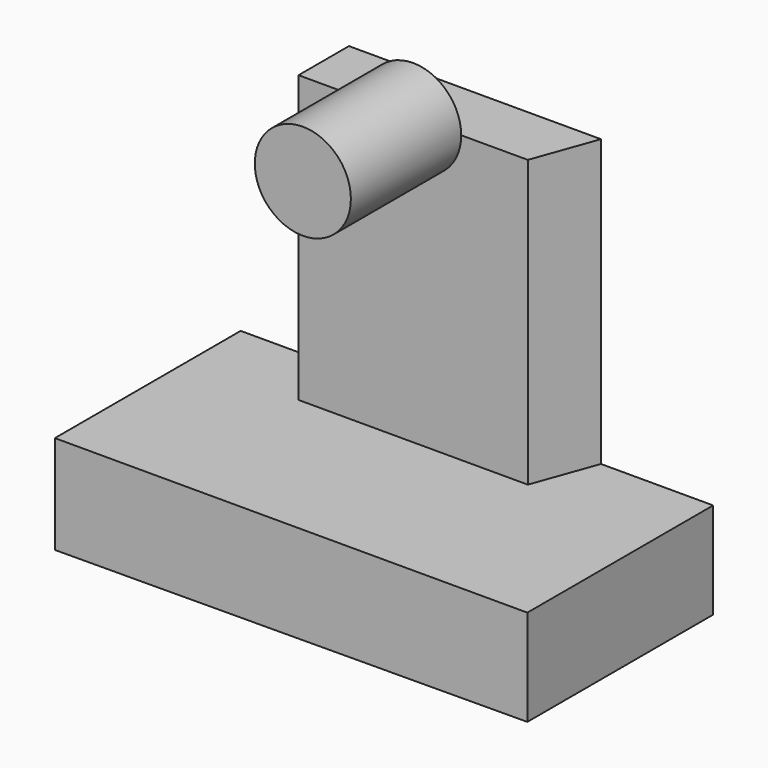
from build123d import *

# Parameters (mm, degrees)
F1_DEPTH = 7.83
F3_DEPTH = 9.64
F4_R     = 1.62
F5_DEPTH = 4.65


with BuildPart() as f1:
    # F0 (on Front) → F1 (new body)
    with BuildSketch(Plane.XZ):
        Polygon((-36.018939, -28.847411), (-51.948939, -28.847411), (-51.948939, -32.167411), (-36.019121, -32.091239), align=None)
    extrude(amount=F1_DEPTH)


with BuildPart() as f3:
    # F2 (on face) → F3 (new body)
    with BuildSketch(Plane.XY.offset(-28.847411)):
        Polygon((-39.79991, 0), (-48.298113, 0), (-48.298113, -2.12455), (-40.568113, -2.12455), align=None)
    extrude(amount=F3_DEPTH)

    # F4 (on face) → F5 (join)
    with BuildSketch(Plane.XZ.offset(2.12455)):
        with Locations((-44.433113, -19.207411)):
            Circle(F4_R)
    extrude(amount=F5_DEPTH)


solid = Compound([f1.part, f3.part])
